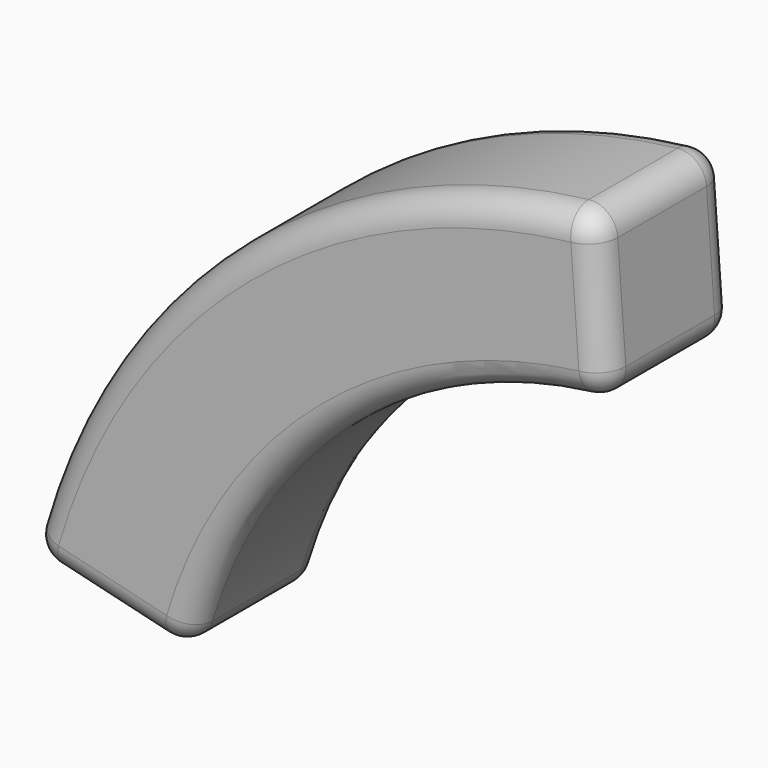
from build123d import *

# Parameters (mm, degrees)
F1_DEPTH = 15.875
F2_R     = 5.08


with BuildPart() as f1:
    # F0 (on Front) → F1 (new body, symmetric)
    with BuildSketch(Plane.XZ):
        with BuildLine():
            ThreePointArc((-24.109727, -54.845564), (5.564563, -6.703762), (57.928178, 14.656209))
            Line((57.928178, 14.656209), (55.651654, 46.32449))
            ThreePointArc((55.651654, 46.32449), (-14.958741, 17.521359), (-54.973422, -47.396077))
            Line((-54.973422, -47.396077), (-24.109727, -54.845564))
        make_face()
    extrude(amount=F1_DEPTH, both=True)

    # F2
    f2_edges = [f1.edges().sort_by_distance(p)[0] for p in [
        (-14.958741, -15.875, 17.521359),
        (5.564563, -15.875, -6.703762),
        (57.928178, 0, 14.656209),
        (56.789916, 15.875, 30.490349),
        (55.651654, 0, 46.32449),
        (56.789916, -15.875, 30.490349),
        (-14.958741, 15.875, 17.521359),
        (5.564563, 15.875, -6.703762),
        (-24.109727, 0, -54.845564),
        (-39.541574, 15.875, -51.12082),
        (-54.973422, 0, -47.396077),
        (-39.541574, -15.875, -51.12082),
    ]]
    fillet(f2_edges, radius=F2_R)


solid = f1.part
